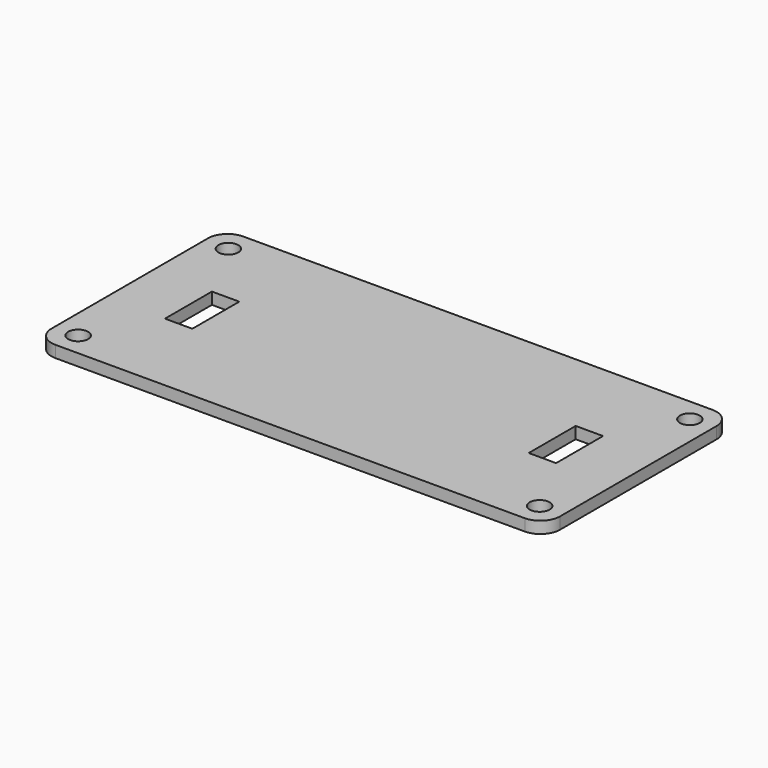
from build123d import *

# Parameters (mm, degrees)
F0_W     = 130
F0_H     = 60
F0_R     = 2.55
F0_W_2   = 7
F0_H_2   = 15
F1_DEPTH = 3
F2_R     = 5


with BuildPart() as f1:
    # F0 (on Top) → F1 (new body)
    with BuildSketch(Plane.XY):
        with Locations((65, 30)):
            Rectangle(F0_W, F0_H)
        with Locations((6, 6)):
            Circle(F0_R, mode=Mode.SUBTRACT)
        with Locations((124, 6)):
            Circle(F0_R, mode=Mode.SUBTRACT)
        with Locations((18.5, 30)):
            Rectangle(F0_W_2, F0_H_2, mode=Mode.SUBTRACT)
        with Locations((6, 54)):
            Circle(F0_R, mode=Mode.SUBTRACT)
        with Locations((111.5, 30)):
            Rectangle(F0_W_2, F0_H_2, mode=Mode.SUBTRACT)
        with Locations((124, 54)):
            Circle(F0_R, mode=Mode.SUBTRACT)
    extrude(amount=F1_DEPTH)

    # F2
    f2_edges = [f1.edges().sort_by_distance(p)[0] for p in [
        (130, 0, 1.5),
        (130, 60, 1.5),
        (0, 0, 1.5),
        (0, 60, 1.5),
    ]]
    fillet(f2_edges, radius=F2_R)


solid = f1.part
